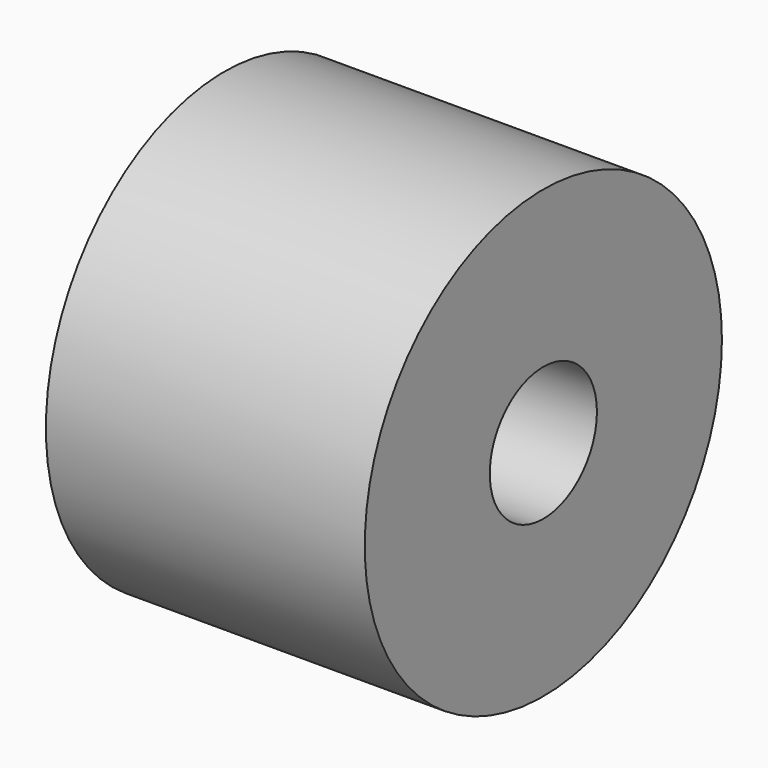
from build123d import *

# Parameters (mm, degrees)
F0_R     = 7
F1_DEPTH = 10
F2_R     = 3.625
F3_DEPTH = 4
F4_R     = 2.1
F5_DEPTH = 10.001


with BuildPart() as f1:
    # F0 (on Right) → F1 (new body)
    with BuildSketch(Plane.YZ):
        Circle(F0_R)
    extrude(amount=F1_DEPTH)

    # F2 (on face) → F3 (cut)
    with BuildSketch(Plane(origin=(0, 0, 0), x_dir=(0, -1, 0), z_dir=(-1, 0, 0))):
        Circle(F2_R)
    extrude(amount=-F3_DEPTH, mode=Mode.SUBTRACT)

    # F4 (on face) → F5 (cut, through all)
    with BuildSketch(Plane.YZ.offset(10)):
        Circle(F4_R)
    extrude(amount=-F5_DEPTH, mode=Mode.SUBTRACT)


solid = f1.part
